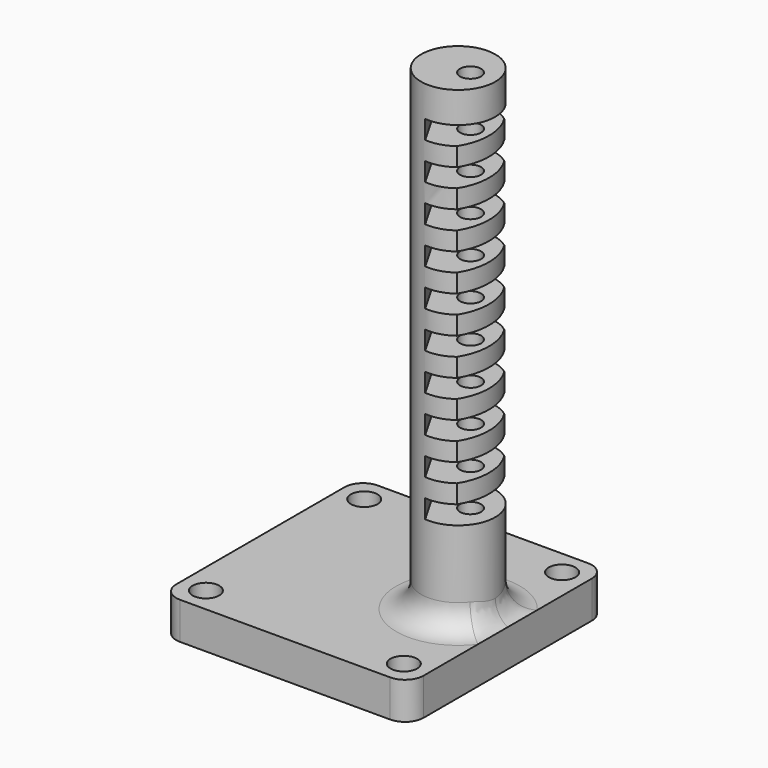
from build123d import *

# Parameters (mm, degrees)
SKETCH030_R     = 2.15
PAD009_DEPTH    = 6
SKETCH031_R     = 6
PAD010_DEPTH    = 77
FILLET010_R     = 4
GROOVE003_ANGLE = 120
SKETCH033_R     = 1.7
POCKET016_DEPTH = 83.0010001


with BuildPart() as part:
    # Sketch030 → Pad009 (new body)
    with BuildSketch(Plane.XY):
        with BuildLine():
            ThreePointArc((-17, 20), (-19.1213203436, 19.1213203436), (-20, 17))
            Line((-20, -17), (-20, 17))
            ThreePointArc((-20, -17), (-19.1213203436, -19.1213203436), (-17, -20))
            Line((17, -20), (-17, -20))
            ThreePointArc((17, -20), (19.1213203436, -19.1213203436), (20, -17))
            Line((20, 17), (20, -17))
            ThreePointArc((20, 17), (19.1213203436, 19.1213203436), (17, 20))
            Line((-17, 20), (17, 20))
        make_face()
        with Locations((-16, 16)):
            Circle(SKETCH030_R, mode=Mode.SUBTRACT)
        with Locations((16, 16)):
            Circle(SKETCH030_R, mode=Mode.SUBTRACT)
        with Locations((16, -16)):
            Circle(SKETCH030_R, mode=Mode.SUBTRACT)
        with Locations((-16, -16)):
            Circle(SKETCH030_R, mode=Mode.SUBTRACT)
    extrude(amount=PAD009_DEPTH)

    # Sketch031 (on Face14 of Pad009) → Pad010 (join)
    with BuildSketch(Plane.XY.offset(6)):
        with Locations((12, 0)):
            Circle(SKETCH031_R)
    extrude(amount=PAD010_DEPTH)

    # Fillet010
    fillet010_edges = [part.edges().sort_by_distance(p)[0] for p in [
        (6, 0, 6),
    ]]
    fillet(fillet010_edges, radius=FILLET010_R)

    # Sketch032 (on DatumPlane) → Groove003 (revolve, symmetric, cut)
    with BuildSketch(Plane(origin=(20, 0, 0), x_dir=(-1, 0, 0), z_dir=(0, 1, 0))) as groove003_sk:
        Polygon((12, 48), (12, 45), (3, 45), (3, 42), (12, 42), (12, 39), (3, 39), (3, 36), (12, 36), (12, 33), (3, 33), (3, 30), (12, 30), (12, 27), (3, 27), (3, 24), (12, 24), (12, 21), (0, 21), (0, 33), (0, 78), (12, 78), (12, 75), (3, 75), (3, 72), (12, 72), (12, 69), (3, 69), (3, 66), (12, 66), (12, 63), (3, 63), (3, 60), (12, 60), (12, 57), (3, 57), (3, 54), (12, 54), (12, 51), (3, 51), (3, 48), align=None)
    revolve(axis=Axis((8, 0, 0), (0, 0, -1)), revolution_arc=GROOVE003_ANGLE / 2, mode=Mode.SUBTRACT)
    revolve(groove003_sk.sketch, axis=Axis((8, 0, 0), (0, 0, 1)), revolution_arc=GROOVE003_ANGLE / 2, mode=Mode.SUBTRACT)

    # Sketch033 (on Face58 of Groove003) → Pocket016 (cut, through all)
    with BuildSketch(Plane.XY.offset(83)):
        with Locations((14, 0)):
            Circle(SKETCH033_R)
    extrude(amount=-POCKET016_DEPTH, mode=Mode.SUBTRACT)


solid = part.part
